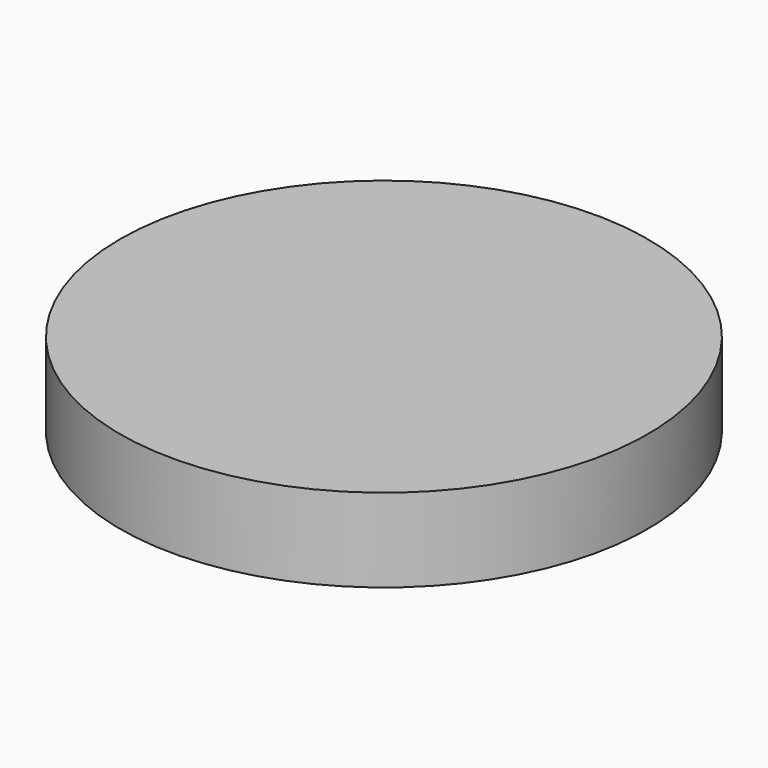
from build123d import *


with BuildPart() as f1:
    # F0 (on Front) → F1 (revolve)
    with BuildSketch(Plane.XZ):
        with BuildLine():
            Line((0, -22.4782526493), (0, 0))
            Line((0, 0), (-155.6186676025, 0))
            Line((-155.6186676025, 0), (-155.6186676025, -49.2006465793))
            Line((-155.6186676025, -49.2006465793), (-113.1772100925, -49.2006465793))
            Line((-113.1772100925, -49.2006465793), (-82.6822370291, -61.1471310258))
            Line((-82.6822370291, -61.1471310258), (-99.9732017517, -22.4782526493))
            Line((-99.9732017517, -22.4782526493), (-82.6822370291, -22.4782526493))
            Line((-82.6822370291, -22.4782526493), (-82.6822370291, -34.7391143441))
            Line((-82.6822370291, -34.7391143441), (-52.1872714162, -34.7391143441))
            Line((-52.1872714162, -34.7391143441), (-52.1872714162, -22.4782526493))
            add(Edge.make_bspline(
                [(0, -22.4782526493), (-2.8142907801, -32.4467385077), (-8.0003430573, -50.8162293758), (-40.4901644956, -60.0295188612), (-33.4401070707, -24.0995991635), (-58.8618413993, 1.0533957712), (-94.439374031, -3.923218739), (-163.3653585954, -8.2479457957), (-110.301825273, -23.7223998869), (-85.9056412043, -5.8485954196), (-72.5873665486, -36.2091265219), (-83.1186170791, -9.3276446922), (-60.7115212903, -10.6582893817), (-72.6933520657, -21.9830476081), (-61.1717950422, -33.6890030681), (-60.8855709519, -12.1140515389), (-54.9358900862, -19.2032175054), (-52.1872714162, -22.4782526493)],
                knots=[0, 0, 0, 0, 0.0799601079, 0.1473469987, 0.223480378, 0.3042706997, 0.3988147139, 0.4965636182, 0.5777269128, 0.6561758316, 0.7133148298, 0.7677461353, 0.8167525657, 0.8640914063, 0.9059356447, 0.9565443847, 1, 1, 1, 1], degree=3))
        make_face()
    revolve(axis=Axis((0, 0, -11.2391263247), (0, 0, -1)))


solid = f1.part
